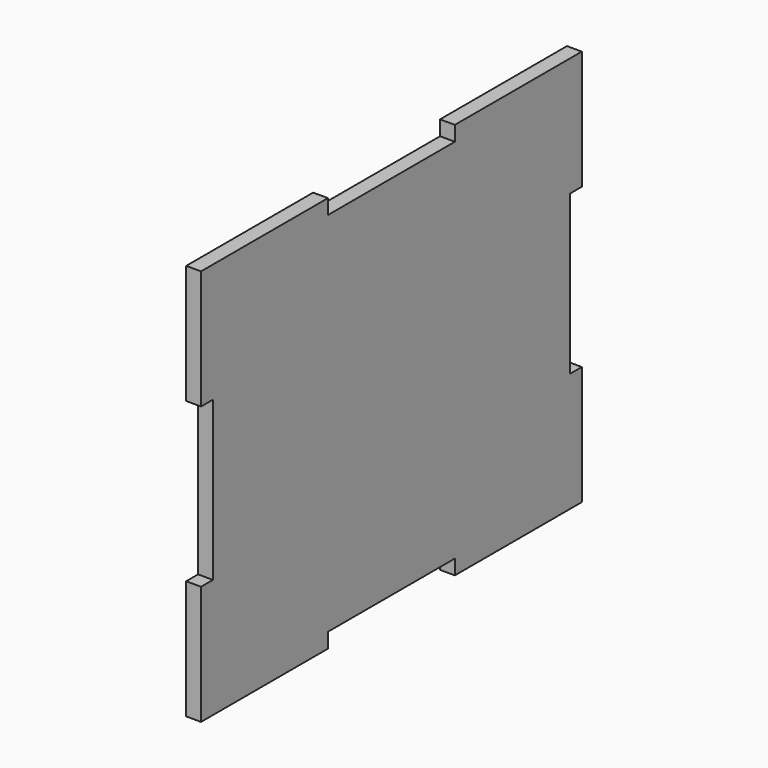
from build123d import *

# Parameters (mm, degrees)
F1_DEPTH = 19.05


with BuildPart() as f1:
    # F0 (on Right) → F1 (new body)
    with BuildSketch(Plane.YZ):
        Polygon((-225.6507389247, 282.9844930649), (-428.8507389247, 282.9844930649), (-428.8507389247, 130.5844930649), (-409.8007389247, 130.5844930649), (-409.8007389247, -72.6155069351), (-428.8507389247, -72.6155069351), (-428.8507389247, -225.0155069351), (-225.6507389247, -225.0155069351), (-225.6507389247, -205.9655069351), (-22.4507389247, -205.9655069351), (-22.4507389247, -225.0155069351), (180.7492610753, -225.0155069351), (180.7492610753, -72.6155069351), (161.6992610753, -72.6155069351), (161.6992610753, 130.5844930649), (180.7492610753, 130.5844930649), (180.7492610753, 282.9844930649), (-22.4507389247, 282.9844930649), (-22.4507389247, 263.9344930649), (-225.6507389247, 263.9344930649), align=None)
    extrude(amount=F1_DEPTH)


solid = f1.part
